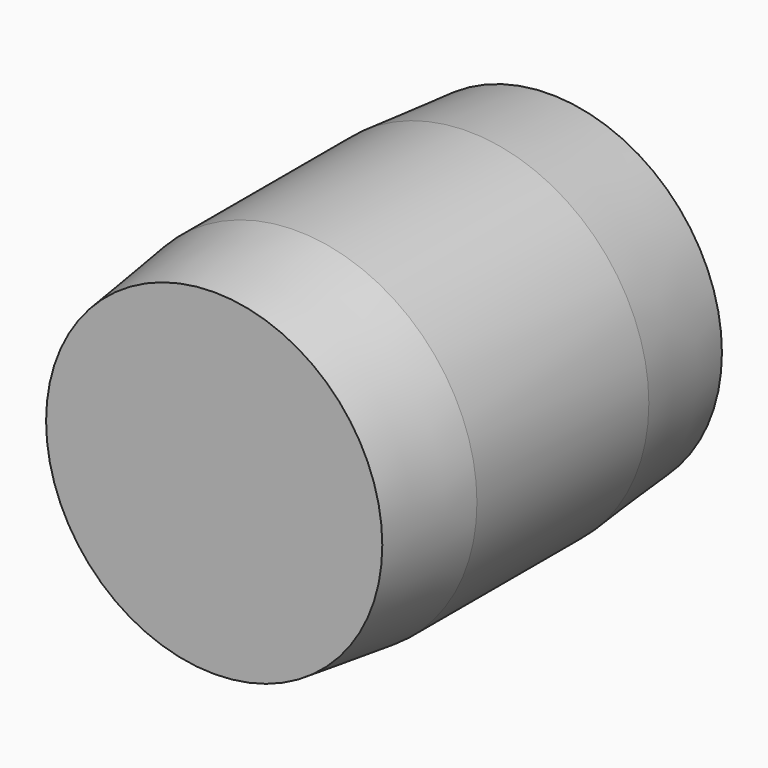
from build123d import *

# Parameters (mm, degrees)
F0_R       = 18.5
F1_DEPTH   = 22
F3_R       = 18.5
F3_R_2     = 15
F4_DEPTH   = 10.5
F4_TAPER   = 7
F1_FACE1_R = 18.5
F5_DEPTH   = 10.5
F5_TAPER   = 5


with BuildPart() as f1:
    # F0 (on Front) → F1 (new body)
    with BuildSketch(Plane.XZ):
        Circle(F0_R)
    extrude(amount=-F1_DEPTH)

    # F3 (on face) → F4 (join)
    with BuildSketch(Plane.XZ):
        Circle(F3_R)
        Circle(F3_R_2, mode=Mode.SUBTRACT)
        Circle(F3_R_2)
    extrude(amount=F4_DEPTH, taper=F4_TAPER)

    # F1_face1 (on face) → F5 (join)
    with BuildSketch(Plane(origin=(0, 22, 0), x_dir=(1, 0, 0), z_dir=(0, 1, 0))):
        Circle(F1_FACE1_R)
    extrude(amount=F5_DEPTH, taper=F5_TAPER)


solid = f1.part
